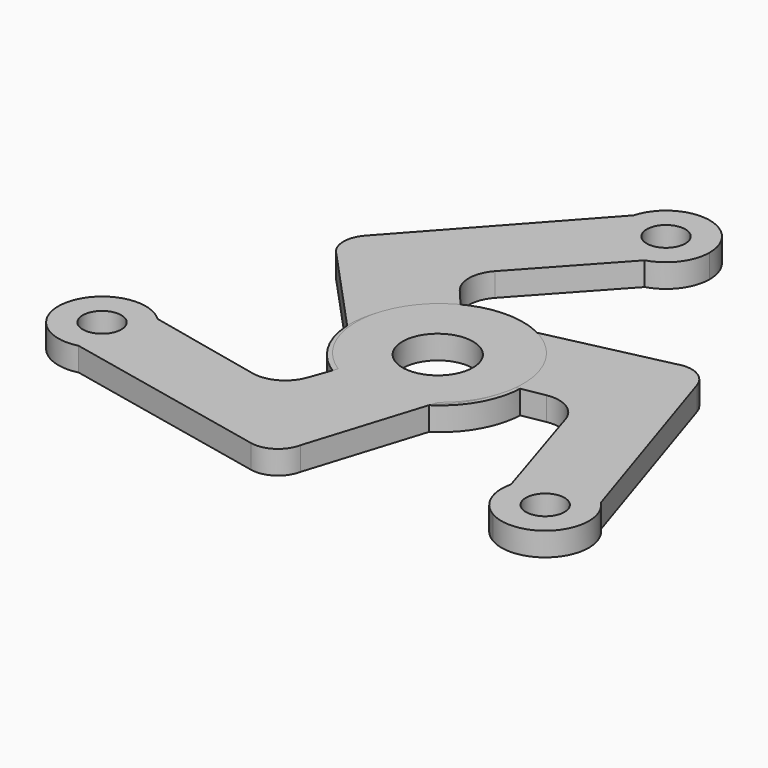
from build123d import *

# Parameters (mm, degrees)
F0_R     = 7.62
F1_DEPTH = 5.08
F0_R_2   = 4.169276
F2_DEPTH = 5.08
F3_COUNT = 3


with BuildPart() as f1:
    # F0 (on Top) → F1 (new body)
    with BuildSketch(Plane.XY):
        with BuildLine():
            ThreePointArc((-7.689276, 15.813627), (-15.40551, 8.087855), (-17.253321, -2.67381))
            ThreePointArc((-17.253321, -2.67381), (1.859984, -18.206211), (18.667102, -0.20358))
            ThreePointArc((18.667102, -0.20358), (9.993453, 15.217263), (-7.689276, 15.813627))
        make_face()
        Circle(F0_R, mode=Mode.SUBTRACT)
    extrude(amount=F1_DEPTH)

    # F0 (on Top) → F2 (join)
    with BuildSketch(Plane.XY):
        with BuildLine():
            ThreePointArc((5.752466, 48.657595), (10.655681, 52.055792), (12.541241, 57.715645))
            ThreePointArc((12.541241, 57.715645), (4.414499, 67.061524), (-5.9694, 60.311411))
            ThreePointArc((-5.9694, 60.311411), (-3.549824, 51.023051), (5.752466, 48.657595))
        make_face()
        with Locations((3.103917, 57.715645)):
            Circle(F0_R_2, mode=Mode.SUBTRACT)
        with BuildLine():
            ThreePointArc((5.752466, 48.657595), (-3.549824, 51.023051), (-5.9694, 60.311411))
            Line((-5.9694, 60.311411), (-36.66531, 26.270923))
            ThreePointArc((-36.66531, 26.270923), (-38.175499, 21.973824), (-36.179271, 17.879828))
            Line((-36.179271, 17.879828), (-17.253321, -2.67381))
            ThreePointArc((-17.253321, -2.67381), (-15.40551, 8.087855), (-7.689276, 15.813627))
            Line((-7.689276, 15.813627), (-11.646228, 20.490768))
            ThreePointArc((-11.646228, 20.490768), (-13.315312, 25.18642), (-11.467841, 29.814794))
            Line((-11.467841, 29.814794), (5.752466, 48.657595))
        make_face()
        with BuildLine():
            ThreePointArc((-7.689276, 15.813627), (-15.40551, 8.087855), (-17.253321, -2.67381))
            ThreePointArc((-17.253321, -2.67381), (1.859984, -18.206211), (18.667102, -0.20358))
            ThreePointArc((18.667102, -0.20358), (9.993453, 15.217263), (-7.689276, 15.813627))
        make_face()
        Circle(F0_R, mode=Mode.SUBTRACT)
    extrude(amount=F2_DEPTH)


with BuildPart() as f3_1:
    # F3: instance of F1
    add(f1.part.rotate(Axis((0, 0, 5.08), (0, 0, -1)), 1 * 360 / F3_COUNT))


with BuildPart() as f3_2:
    # F3: instance of F1
    add(f1.part.rotate(Axis((0, 0, 5.08), (0, 0, -1)), 2 * 360 / F3_COUNT))


solid = Compound([f1.part, f3_1.part, f3_2.part])
